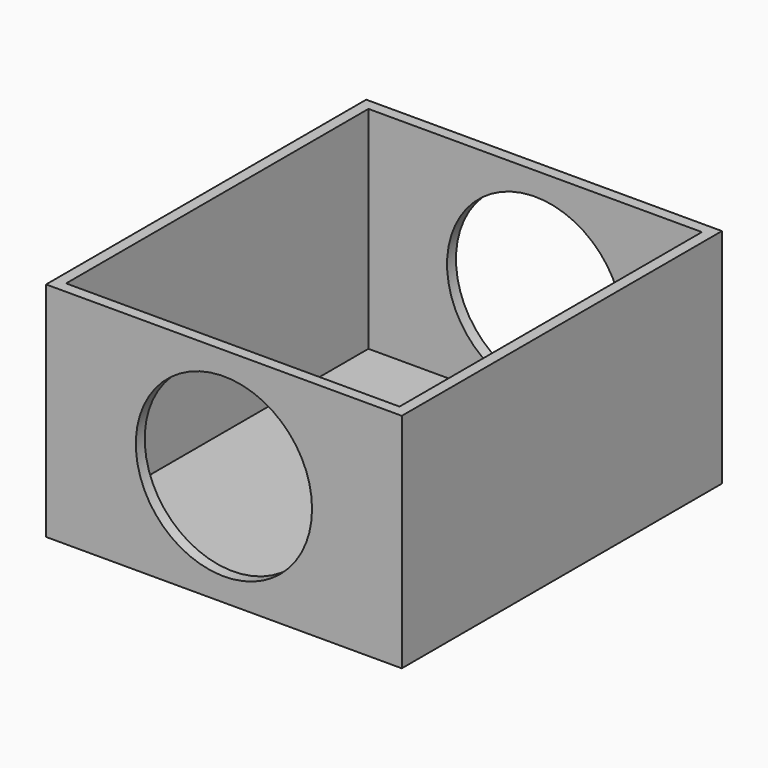
from build123d import *

# Parameters (mm, degrees)
F0_W     = 80
F0_H     = 90
F1_DEPTH = 50
F2_T     = -2.5
F3_R     = 19.815
F4_DEPTH = 90.001


with BuildPart() as f1:
    # F0 (on Top) → F1 (new body)
    with BuildSketch(Plane.XY):
        Rectangle(F0_W, F0_H)
    extrude(amount=F1_DEPTH)

    # F2
    f2_openings = [f1.faces().sort_by_distance(p)[0] for p in [
        (0, 0, 50),
    ]]
    offset(amount=F2_T, openings=f2_openings)

    # F3 (on face) → F4 (cut, through all)
    with BuildSketch(Plane.XZ.offset(45)):
        with Locations((0, 25)):
            Circle(F3_R)
    extrude(amount=-F4_DEPTH, mode=Mode.SUBTRACT)


solid = f1.part
